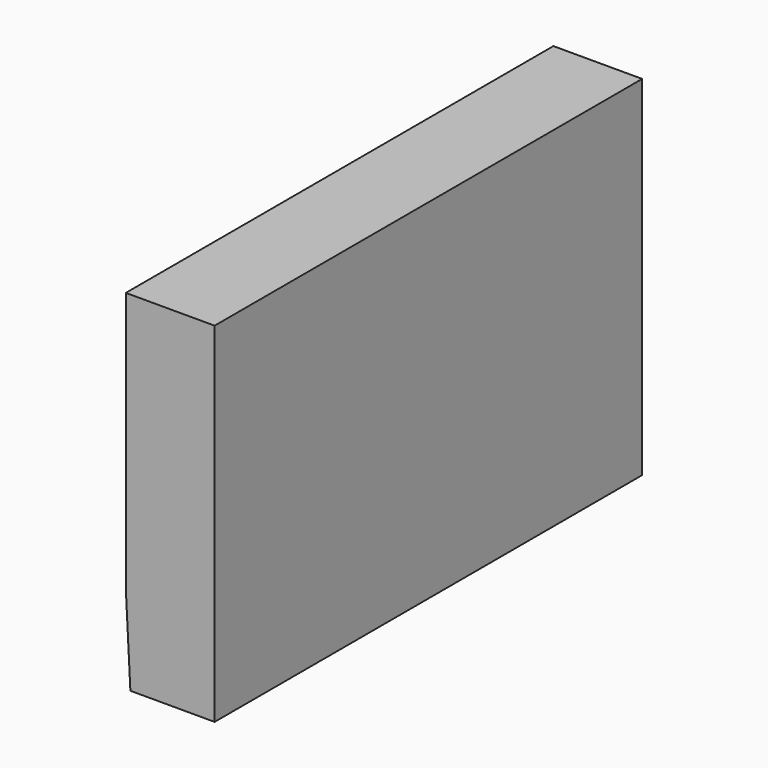
from build123d import *

# Parameters (mm, degrees)
F1_DEPTH = 25.4
F2_DEPTH = 508
F3_DEPTH = 508
F4_DEPTH = 508


with BuildPart() as f1:
    # F0 (on Front) → F1 (new body)
    with BuildSketch(Plane.XZ):
        Polygon((86.5744352341, 88.8054594398), (-86.4560827613, 88.8054594398), (-77.5985121727, -82.9327851534), (86.5744352341, -82.9327851534), align=None)
    extrude(amount=F1_DEPTH)

    # F2 (add): a face of the model
    f2_faces = [f1.faces().sort_by_distance(p)[0] for p in [
        (2.2541798586, -25.4, 3.688199535),
    ]]
    extrude(f2_faces, amount=F2_DEPTH)

    # F3 (add): a face of the model
    f3_faces = [f1.faces().sort_by_distance(p)[0] for p in [
        (2.2541798586, -533.4, 3.688199535),
    ]]
    extrude(f3_faces, amount=F3_DEPTH)

    # F4 (add): a face of the model
    f4_faces = [f1.faces().sort_by_distance(p)[0] for p in [
        (0.0591762364, -520.7, 88.8054594398),
    ]]
    extrude(f4_faces, amount=F4_DEPTH)


solid = f1.part
